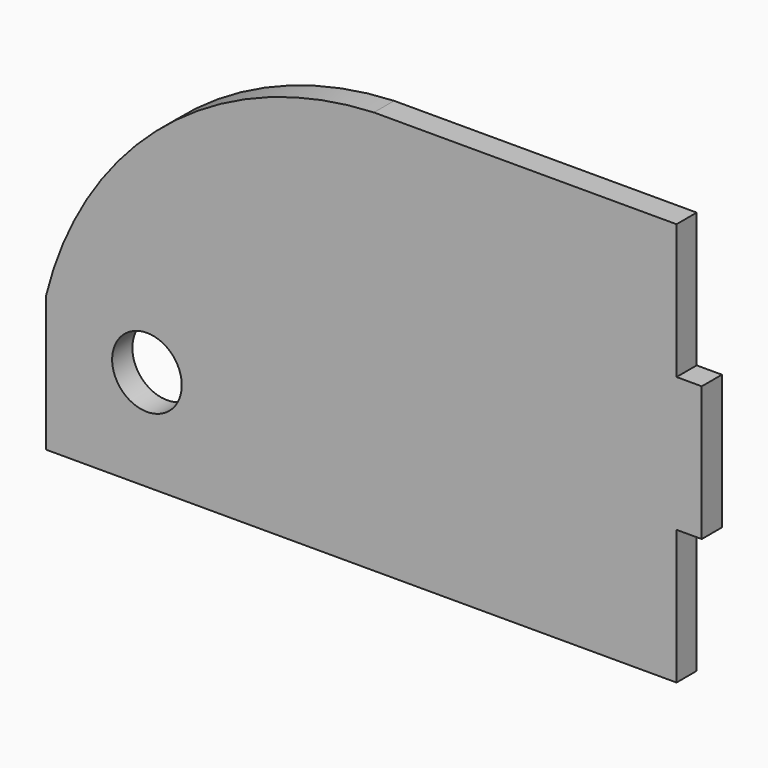
from build123d import *

# Parameters (mm, degrees)
F0_W     = 82.55
F0_H     = 50.8
F1_DEPTH = 3.175
F2_R     = 4.3815
F3_DEPTH = 3.175
F5_DEPTH = 3.175
F6_W     = 3.175
F6_H     = 16.9333333333
F7_DEPTH = 3.175


with BuildPart() as f1:
    # F0 (on Front) → F1 (new body)
    with BuildSketch(Plane.XZ):
        Rectangle(F0_W, F0_H)
    extrude(amount=F1_DEPTH)

    # F2 (on face) → F3 (cut)
    with BuildSketch(Plane.XZ.offset(3.175)):
        with Locations((-28.575, -12.7)):
            Circle(F2_R)
    extrude(amount=-F3_DEPTH, mode=Mode.SUBTRACT)

    # F4 (on face) → F5 (cut)
    with BuildSketch(Plane.XZ.offset(3.175)):
        with BuildLine():
            ThreePointArc((-41.275, -8.3196220329), (-26.2518600879, 15.4125291421), (0, 25.4))
            Line((0, 25.4), (-41.275, 25.4))
            Line((-41.275, 25.4), (-41.275, -8.3196220329))
        make_face()
    extrude(amount=-F5_DEPTH, mode=Mode.SUBTRACT)

    # F6 (on face) → F7 (cut)
    with BuildSketch(Plane.XZ.offset(3.175)):
        with Locations((39.6875, 16.9333333333)):
            Rectangle(F6_W, F6_H)
        with Locations((39.6875, -16.9333333333)):
            Rectangle(F6_W, F6_H)
    extrude(amount=-F7_DEPTH, mode=Mode.SUBTRACT)


solid = f1.part
